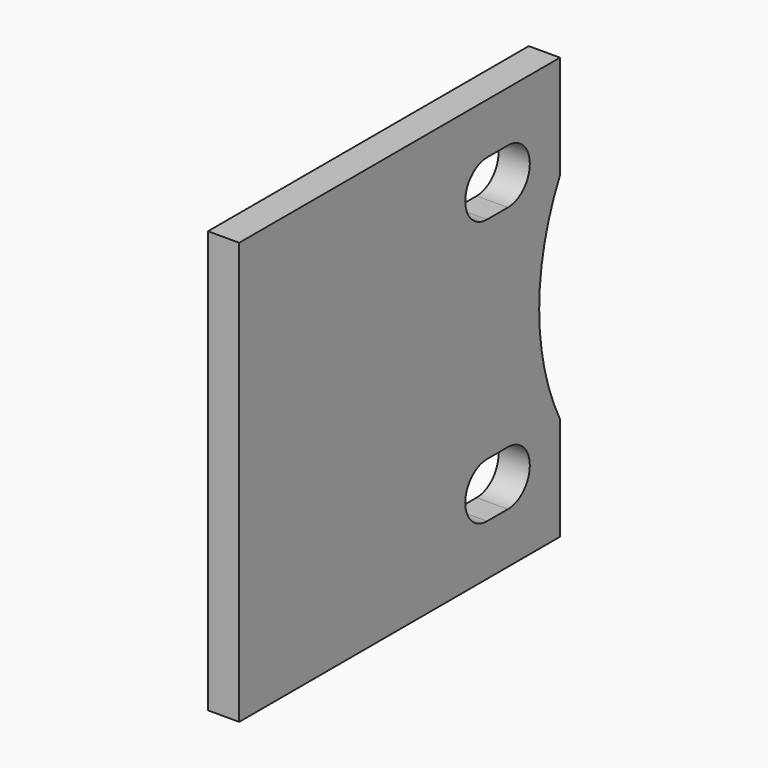
from build123d import *

# Parameters (mm, degrees)
F1_DEPTH = 6


with BuildPart() as f1:
    # F0 (on Right) → F1 (new body)
    with BuildSketch(Plane.YZ):
        with BuildLine():
            Line((38.5, 20.615528), (38.5, 40.5))
            Line((38.5, 40.5), (-38.5, 40.5))
            Line((-38.5, 40.5), (-38.5, -40.5))
            Line((-38.5, -40.5), (38.5, -40.5))
            Line((38.5, -40.5), (38.5, -20.615528))
            ThreePointArc((38.5, -20.615528), (33.5, 0), (38.5, 20.615528))
        make_face()
        with BuildLine():
            ThreePointArc((21, -30.75), (15.75, -25.5), (21, -20.25))
            Line((21, -20.25), (26, -20.25))
            ThreePointArc((26, -20.25), (31.25, -25.5), (26, -30.75))
            Line((26, -30.75), (21, -30.75))
        make_face(mode=Mode.SUBTRACT)
        with BuildLine():
            ThreePointArc((21, 20.25), (15.75, 25.5), (21, 30.75))
            Line((21, 30.75), (26, 30.75))
            ThreePointArc((26, 30.75), (31.25, 25.5), (26, 20.25))
            Line((26, 20.25), (21, 20.25))
        make_face(mode=Mode.SUBTRACT)
    extrude(amount=F1_DEPTH)


solid = f1.part
